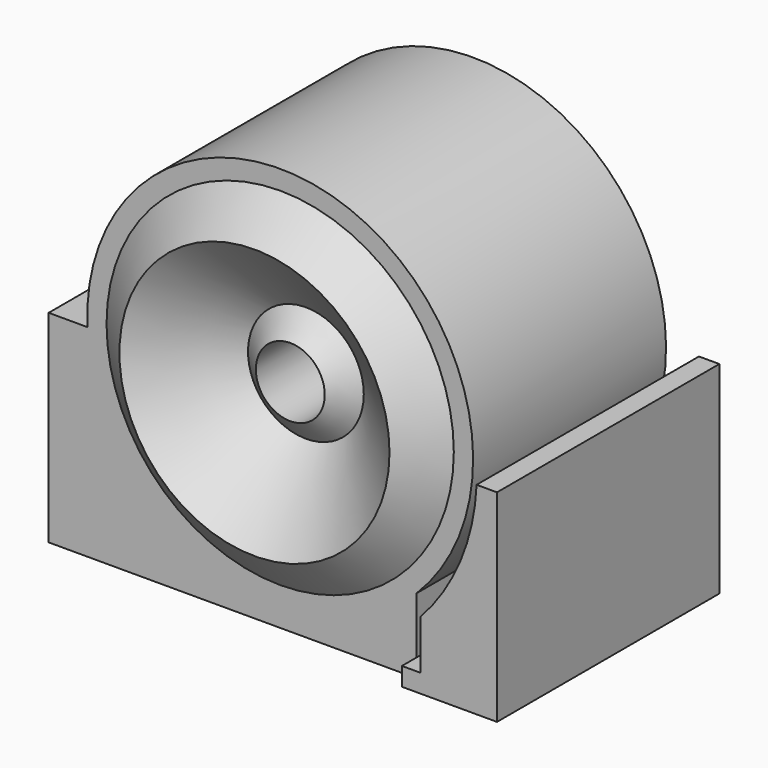
from build123d import *

# Parameters (mm, degrees)
SKETCH014_R     = 1.5
POCKET002_DEPTH = 21
PAD010_DEPTH    = 10.5
PAD011_DEPTH    = 12.1
SKETCH046_W     = 0.8
SKETCH046_H     = 0.8
POCKET004_DEPTH = 10.5


with BuildPart() as part:
    # Sketch011 → Revolution004 (revolve)
    with BuildSketch(Plane.XY):
        Polygon((0, -0.4), (0.84, -0.4), (2.52, 1), (5.88, -1.8), (7.56, -0.4), (8.4, -0.4), (8.4, -10.9), (7.56, -10.9), (5.88, -12.3), (2.52, -9.5), (0.84, -10.9), (0, -10.9), align=None)
    revolve(axis=Axis((0, 0, 0), (0, 1, 0)))

    # Sketch014 → Pocket002 (cut)
    with BuildSketch(Plane.XZ.offset(-1)):
        Circle(SKETCH014_R)
    extrude(amount=POCKET002_DEPTH, mode=Mode.SUBTRACT)

    # Sketch025 → Pad010 (join)
    with BuildSketch(Plane.XZ.offset(0.4)):
        with BuildLine():
            Line((-10.08, -0.4), (-10.08, -9.2))
            Line((-10.08, -9.2), (5.939697, -9.2))
            Line((5.939697, -9.2), (5.939697, -5.939697))
            ThreePointArc((-8.390471, -0.4), (-3.028801, -7.834945), (5.939697, -5.939697))
            Line((-8.390471, -0.4), (-10.08, -0.4))
        make_face()
    extrude(amount=PAD010_DEPTH)

    # Sketch026 → Pad011 (join)
    with BuildSketch(Plane.XZ.offset(-0.4)):
        with BuildLine():
            ThreePointArc((6.739697, -6.262307), (8.487687, -3.549531), (9.1913, -0.4))
            Line((9.1913, -0.4), (10.08, -0.4))
            Line((10.08, -0.4), (10.08, -9.2))
            Line((10.08, -9.2), (5.939697, -9.2))
            Line((5.939697, -8.4), (5.939697, -9.2))
            Line((6.739697, -8.4), (5.939697, -8.4))
            Line((6.739697, -8.4), (6.739697, -6.262307))
        make_face()
    extrude(amount=PAD011_DEPTH)

    # Sketch046 → Pocket004 (cut)
    with BuildSketch(Plane.XZ.offset(-0.4)):
        with Locations((6.339697, -8.8)):
            Rectangle(SKETCH046_W, SKETCH046_H)
    extrude(amount=POCKET004_DEPTH, mode=Mode.SUBTRACT)


solid = part.part
